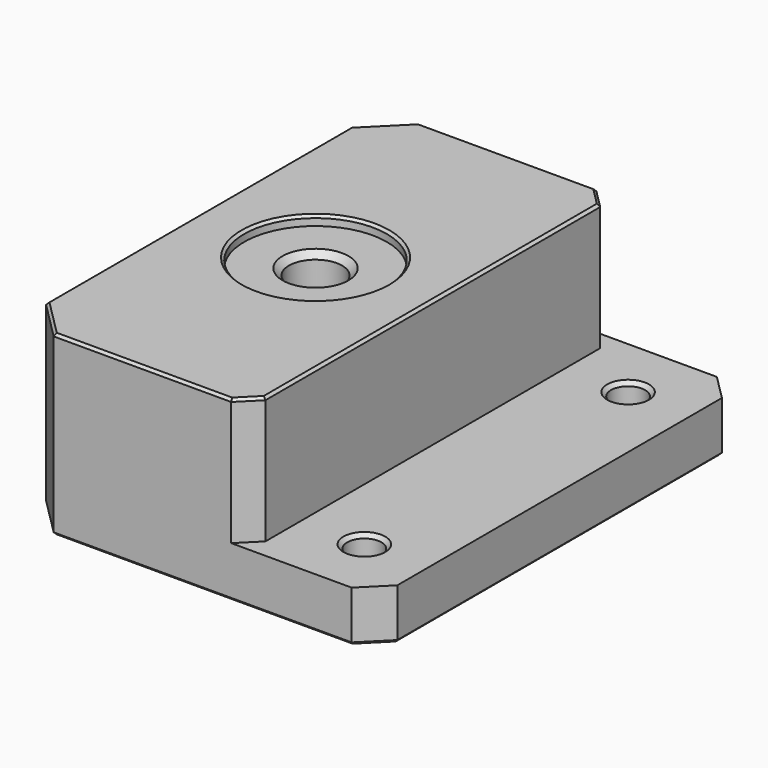
from build123d import *

# Parameters (mm, degrees)
PAD_DEPTH       = 36
SKETCH001_R     = 4.2
POCKET_DEPTH    = 28.001
SKETCH002_R     = 16.5
POCKET001_DEPTH = 10
POCKET002_DEPTH = 6.5
SKETCH004_R     = 11.25
POCKET003_DEPTH = 1.5
SKETCH005_R     = 2.7
POCKET004_DEPTH = 10
SKETCH006_R     = 4.75
POCKET005_DEPTH = 1
CHAMFER_SIZE    = 3
CHAMFER001_SIZE = 4
CHAMFER002_SIZE = 6
CHAMFER003_SIZE = 3
CHAMFER004_SIZE = 0.8
CHAMFER005_SIZE = 1
CHAMFER006_SIZE = 0.6
CHAMFER007_SIZE = 0.4


with BuildPart() as part:
    # Sketch (on XZ_Plane of Origin) → Pad (new body, symmetric)
    with BuildSketch(Plane.XZ):
        Polygon((0, 0), (0, 20), (-37, 20), (-37, -8), (20, -8), (20, 0), align=None)
    extrude(amount=PAD_DEPTH, both=True)

    # Sketch001 (on Face2 of Pad) → Pocket (cut, through all)
    with BuildSketch(Plane.XY.offset(20)):
        with Locations((-18.5, 0)):
            Circle(SKETCH001_R)
    extrude(amount=-POCKET_DEPTH, mode=Mode.SUBTRACT)

    # Sketch002 (on Face9 of Pocket) → Pocket001 (cut)
    with BuildSketch(Plane(origin=(0, 0, -8), x_dir=(1, 0, 0), z_dir=(0, 0, -1))):
        with Locations((-18.5, 0)):
            Circle(SKETCH002_R)
    extrude(amount=-POCKET001_DEPTH, mode=Mode.SUBTRACT)

    # Sketch003 (on Face10 of Pocket001) → Pocket002 (cut)
    with BuildSketch(Plane(origin=(0, 0, 2), x_dir=(1, 0, 0), z_dir=(0, 0, -1))):
        Polygon((-10.994447, 0), (-14.747223, 6.5), (-22.252777, 6.5), (-26.005553, 0), (-22.252777, -6.5), (-14.747223, -6.5), align=None)
    extrude(amount=-POCKET002_DEPTH, mode=Mode.SUBTRACT)

    # Sketch004 (on Face3 of Pocket002) → Pocket003 (cut)
    with BuildSketch(Plane.XY.offset(20)):
        with Locations((-18.5, 0)):
            Circle(SKETCH004_R)
    extrude(amount=-POCKET003_DEPTH, mode=Mode.SUBTRACT)

    # Sketch005 (on Face2 of Pocket003) → Pocket004 (cut)
    with BuildSketch(Plane.XY):
        with Locations((10, -26)):
            Circle(SKETCH005_R)
        with Locations((10, 26)):
            Circle(SKETCH005_R)
    extrude(amount=-POCKET004_DEPTH, mode=Mode.SUBTRACT)

    # Sketch006 (on Face11 of Pocket004) → Pocket005 (cut)
    with BuildSketch(Plane(origin=(0, 0, -8), x_dir=(1, 0, 0), z_dir=(0, 0, -1))):
        with Locations((10, 26)):
            Circle(SKETCH006_R)
        with Locations((10, -26)):
            Circle(SKETCH006_R)
    extrude(amount=-POCKET005_DEPTH, mode=Mode.SUBTRACT)

    # Chamfer
    chamfer_edges = [part.edges().sort_by_distance(p)[0] for p in [
        (0, -36, 10),
        (0, 36, 10),
    ]]
    chamfer(chamfer_edges, length=CHAMFER_SIZE)

    # Chamfer001
    chamfer001_edges = [part.edges().sort_by_distance(p)[0] for p in [
        (20, -36, -4),
        (20, 36, -4),
    ]]
    chamfer(chamfer001_edges, length=CHAMFER001_SIZE)

    # Chamfer002
    chamfer002_edges = [part.edges().sort_by_distance(p)[0] for p in [
        (-37, -36, 6),
        (-37, 36, 6),
    ]]
    chamfer(chamfer002_edges, length=CHAMFER002_SIZE)

    # Chamfer003
    chamfer003_edges = [part.edges().sort_by_distance(p)[0] for p in [
        (-35, 0, 2),
    ]]
    chamfer(chamfer003_edges, length=CHAMFER003_SIZE)

    # Chamfer004
    chamfer004_edges = [part.edges().sort_by_distance(p)[0] for p in [
        (-35, 0, -8),
    ]]
    chamfer(chamfer004_edges, length=CHAMFER004_SIZE)

    # Chamfer005
    chamfer005_edges = [part.edges().sort_by_distance(p)[0] for p in [
        (-22.7, 0, 18.5),
        (-22.7, 0, 8.5),
    ]]
    chamfer(chamfer005_edges, length=CHAMFER005_SIZE)

    # Chamfer006
    chamfer006_edges = [part.edges().sort_by_distance(p)[0] for p in [
        (7.3, 26, -7),
        (7.3, -26, -7),
        (7.3, -26, 0),
        (7.3, 26, 0),
    ]]
    chamfer(chamfer006_edges, length=CHAMFER006_SIZE)

    # Chamfer007
    chamfer007_edges = [part.edges().sort_by_distance(p)[0] for p in [
        (-17, 36, 20),
        (-34, 33, 20),
        (-1.5, 34.5, 20),
        (-37, 0, 20),
        (0, 0, 20),
        (-34, -33, 20),
        (-1.5, -34.5, 20),
        (-17, -36, 20),
        (-29.75, 0, 20),
        (-35.8, 0, -8),
        (-7.5, 36, -8),
        (-34, 33, -8),
        (18, 34, -8),
        (-37, 0, -8),
        (20, 0, -8),
        (-34, -33, -8),
        (18, -34, -8),
        (-7.5, -36, -8),
        (5.25, -26, -8),
        (5.25, 26, -8),
    ]]
    chamfer(chamfer007_edges, length=CHAMFER007_SIZE)


solid = part.part
